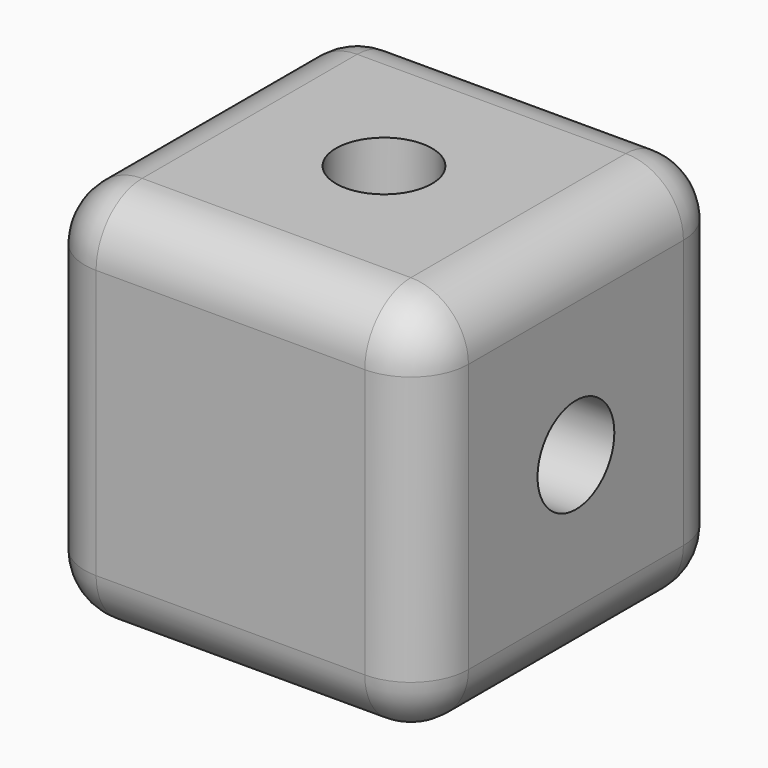
from build123d import *

# Parameters (mm, degrees)
F0_W     = 20
F0_H     = 20
F1_DEPTH = 20
F3_D     = 5
F4_R     = 3
F6_D     = 5


with BuildPart() as f1:
    # F0 (on Top) → F1 (new body)
    with BuildSketch(Plane.XY):
        with Locations((10, -10)):
            Rectangle(F0_W, F0_H)
    extrude(amount=F1_DEPTH)

    # F3 (through all)
    with Locations(Plane.XY.offset(20)):
        with Locations((10, -10)):
            Hole(F3_D / 2)

    # F4
    f4_edges = [f1.edges().sort_by_distance(p)[0] for p in [
        (10, -20, 20),
        (0, -10, 20),
        (20, -10, 20),
        (10, 0, 20),
        (0, -20, 10),
        (20, -20, 10),
        (20, 0, 10),
        (0, 0, 10),
        (10, 0, 0),
        (0, -10, 0),
        (10, -20, 0),
        (20, -10, 0),
    ]]
    fillet(f4_edges, radius=F4_R)

    # F6 (through all)
    with Locations(Plane(origin=(0, 0, 0), x_dir=(0, -1, 0), z_dir=(-1, 0, 0))):
        with Locations((10, 10)):
            Hole(F6_D / 2)


solid = f1.part
